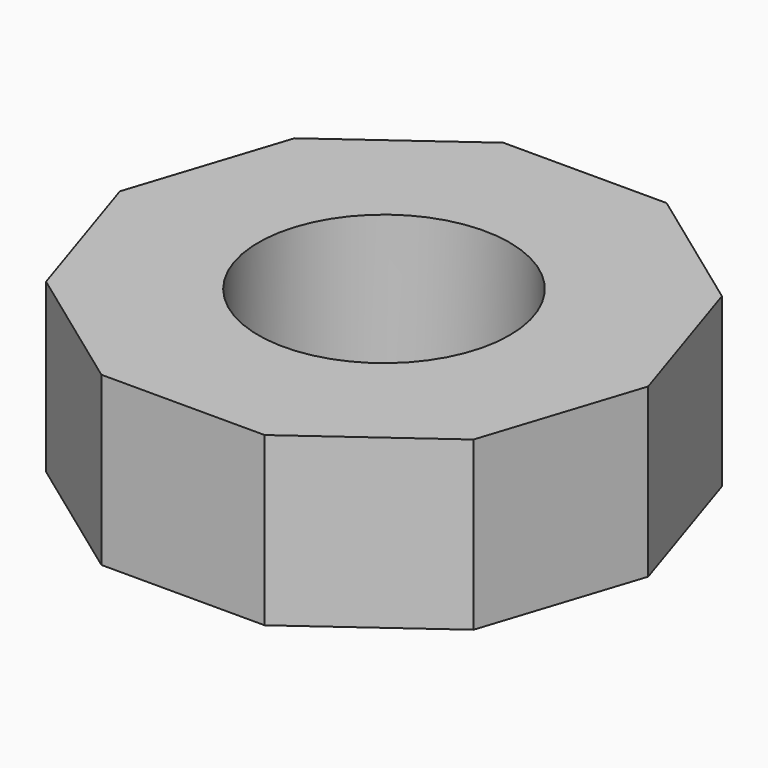
from build123d import *

# Parameters (mm, degrees)
F0_R     = 9.525
F1_DEPTH = 12.7


with BuildPart() as f1:
    # F0 (on Top) → F1 (new body)
    with BuildSketch(Plane.XY):
        Polygon((16.204898, 11.773547), (6.18972, 19.05), (-6.18972, 19.05), (-16.204898, 11.773547), (-20.030355, 0), (-16.204898, -11.773547), (-6.18972, -19.05), (6.18972, -19.05), (16.204898, -11.773547), (20.030355, 0), align=None)
        Circle(F0_R, mode=Mode.SUBTRACT)
    extrude(amount=F1_DEPTH)


solid = f1.part
